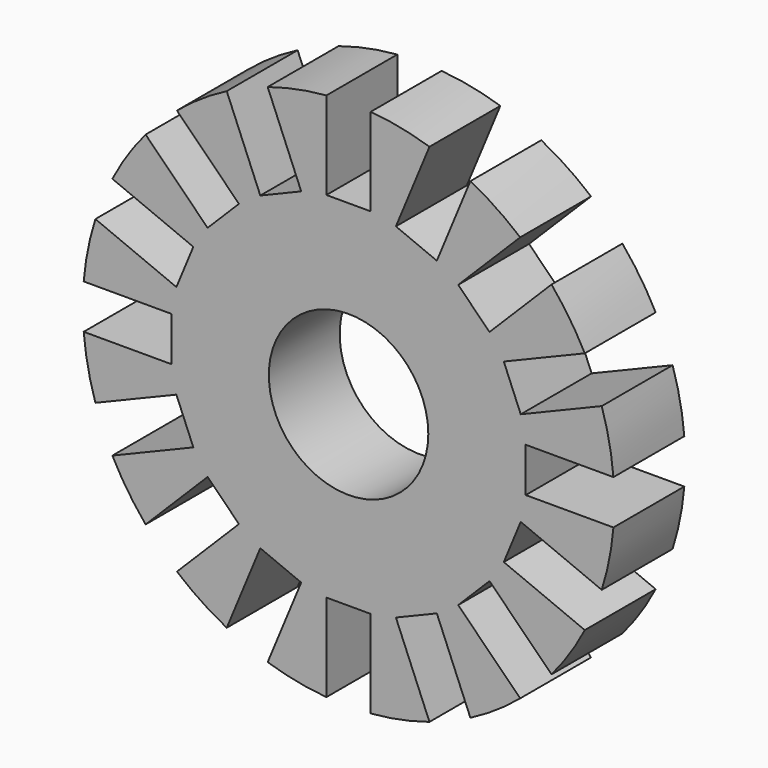
from build123d import *

# Parameters (mm, degrees)
F0_R     = 4.5
F1_DEPTH = 5


with BuildPart() as f1:
    # F0 (on Front) → F1 (new body)
    with BuildSketch(Plane.XZ):
        with BuildLine():
            Line((10, 1.25), (14.947826, 1.25))
            ThreePointArc((14.947826, 1.25), (14.711779, 2.926355), (14.288345, 4.565436))
            Line((14.288345, 4.565436), (9.71715, 2.671985))
            Line((9.71715, 2.671985), (8.760441, 4.981684))
            Line((8.760441, 4.981684), (13.331636, 6.875135))
            ThreePointArc((13.331636, 6.875135), (12.472044, 8.333553), (11.453593, 9.685826))
            Line((11.453593, 9.685826), (7.954951, 6.187184))
            Line((7.954951, 6.187184), (6.187184, 7.954951))
            Line((6.187184, 7.954951), (9.685826, 11.453593))
            ThreePointArc((9.685826, 11.453593), (8.333553, 12.472044), (6.875135, 13.331636))
            Line((6.875135, 13.331636), (4.981684, 8.760441))
            Line((4.981684, 8.760441), (2.671985, 9.71715))
            Line((2.671985, 9.71715), (4.565436, 14.288345))
            ThreePointArc((4.565436, 14.288345), (2.926355, 14.711779), (1.25, 14.947826))
            Line((1.25, 14.947826), (1.25, 10))
            Line((1.25, 10), (-1.25, 10))
            Line((-1.25, 10), (-1.25, 14.947826))
            ThreePointArc((-1.25, 14.947826), (-2.926355, 14.711779), (-4.565436, 14.288345))
            Line((-4.565436, 14.288345), (-2.671985, 9.71715))
            Line((-2.671985, 9.71715), (-4.981684, 8.760441))
            Line((-4.981684, 8.760441), (-6.875135, 13.331636))
            ThreePointArc((-6.875135, 13.331636), (-8.333553, 12.472044), (-9.685826, 11.453593))
            Line((-9.685826, 11.453593), (-6.187184, 7.954951))
            Line((-6.187184, 7.954951), (-7.954951, 6.187184))
            Line((-7.954951, 6.187184), (-11.453593, 9.685826))
            ThreePointArc((-11.453593, 9.685826), (-12.472044, 8.333553), (-13.331636, 6.875135))
            Line((-13.331636, 6.875135), (-8.760441, 4.981684))
            Line((-8.760441, 4.981684), (-9.71715, 2.671985))
            Line((-9.71715, 2.671985), (-14.288345, 4.565436))
            ThreePointArc((-14.288345, 4.565436), (-14.711779, 2.926355), (-14.947826, 1.25))
            Line((-14.947826, 1.25), (-10, 1.25))
            Line((-10, 1.25), (-10, -1.25))
            Line((-10, -1.25), (-14.947826, -1.25))
            ThreePointArc((-14.947826, -1.25), (-14.711779, -2.926355), (-14.288345, -4.565436))
            Line((-14.288345, -4.565436), (-9.71715, -2.671985))
            Line((-9.71715, -2.671985), (-8.760441, -4.981684))
            Line((-8.760441, -4.981684), (-13.331636, -6.875135))
            ThreePointArc((-13.331636, -6.875135), (-12.472044, -8.333553), (-11.453593, -9.685826))
            Line((-11.453593, -9.685826), (-7.954951, -6.187184))
            Line((-7.954951, -6.187184), (-6.187184, -7.954951))
            Line((-6.187184, -7.954951), (-9.685826, -11.453593))
            ThreePointArc((-9.685826, -11.453593), (-8.333553, -12.472044), (-6.875135, -13.331636))
            Line((-6.875135, -13.331636), (-4.981684, -8.760441))
            Line((-4.981684, -8.760441), (-2.671985, -9.71715))
            Line((-2.671985, -9.71715), (-4.565436, -14.288345))
            ThreePointArc((-4.565436, -14.288345), (-2.926355, -14.711779), (-1.25, -14.947826))
            Line((-1.25, -14.947826), (-1.25, -10))
            Line((-1.25, -10), (1.25, -10))
            Line((1.25, -10), (1.25, -14.947826))
            ThreePointArc((1.25, -14.947826), (2.926355, -14.711779), (4.565436, -14.288345))
            Line((4.565436, -14.288345), (2.671985, -9.71715))
            Line((2.671985, -9.71715), (4.981684, -8.760441))
            Line((4.981684, -8.760441), (6.875135, -13.331636))
            ThreePointArc((6.875135, -13.331636), (8.333553, -12.472044), (9.685826, -11.453593))
            Line((9.685826, -11.453593), (6.187184, -7.954951))
            Line((6.187184, -7.954951), (7.954951, -6.187184))
            Line((7.954951, -6.187184), (11.453593, -9.685826))
            ThreePointArc((11.453593, -9.685826), (12.472044, -8.333553), (13.331636, -6.875135))
            Line((13.331636, -6.875135), (8.760441, -4.981684))
            Line((8.760441, -4.981684), (9.71715, -2.671985))
            Line((9.71715, -2.671985), (14.288345, -4.565436))
            ThreePointArc((14.288345, -4.565436), (14.711779, -2.926355), (14.947826, -1.25))
            Line((14.947826, -1.25), (10, -1.25))
            Line((10, -1.25), (10, 1.25))
        make_face()
        Circle(F0_R, mode=Mode.SUBTRACT)
    extrude(amount=F1_DEPTH)


solid = f1.part
